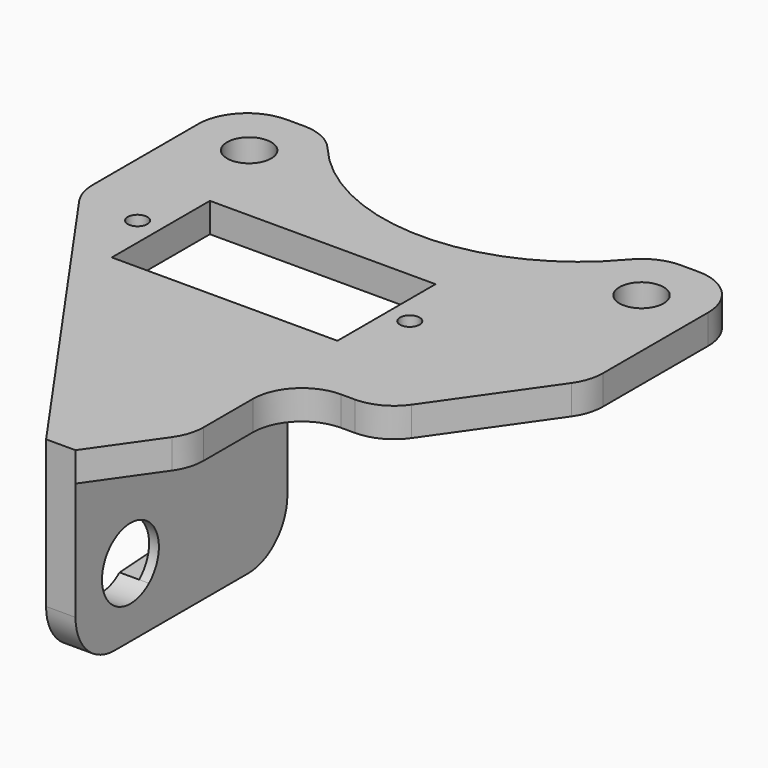
from build123d import *

# Parameters (mm, degrees)
F0_R       = 1
F0_W       = 23
F0_H       = 12.5
F0_R_2     = 2.25
F0_W_2     = 3
F0_H_2     = 27
F1_DEPTH   = 3
F2_DEPTH   = 20
F3_SIZE2   = 24.5
F3_SIZE    = 35
F3_2_SIZE2 = 24.5
F3_2_SIZE  = 35
F4_R       = 5
F6_DEPTH   = 25
F7_DEPTH   = 2
F8_R       = 5
F9_R       = 5
F10_R      = 5
F12_DEPTH  = 25
F13_R      = 5


with BuildPart() as f1:
    # F0 (on Top) → F1 (new body)
    with BuildSketch(Plane.XY):
        with BuildLine():
            Line((-16.7032930885, 35), (-26, 35))
            Line((-26, 35), (-26, -20))
            Line((-26, -20), (-1.5, -20))
            Line((-1.5, -20), (-1.5, 7))
            Line((-1.5, 7), (1.5, 7))
            Line((1.5, 7), (1.5, -20))
            Line((1.5, -20), (26, -20))
            Line((26, -20), (26, 35))
            Line((26, 35), (16.7032930885, 35))
            ThreePointArc((16.7032930885, 35), (0, 26), (-16.7032930885, 35))
        make_face()
        with Locations((-19.375, 14)):
            Circle(F0_R, mode=Mode.SUBTRACT)
        with Locations((-5.5, 14)):
            Rectangle(F0_W, F0_H, mode=Mode.SUBTRACT)
        with Locations((8.375, 14)):
            Circle(F0_R, mode=Mode.SUBTRACT)
        with Locations((-20, 29)):
            Circle(F0_R_2, mode=Mode.SUBTRACT)
        with Locations((20, 29)):
            Circle(F0_R_2, mode=Mode.SUBTRACT)
        with BuildLine():
            Line((-16.7032930885, 35), (-26, 35))
            Line((-26, 35), (-26, -20))
            Line((-26, -20), (-1.5, -20))
            Line((-1.5, -20), (-1.5, 7))
            Line((-1.5, 7), (1.5, 7))
            Line((1.5, 7), (1.5, -20))
            Line((1.5, -20), (26, -20))
            Line((26, -20), (26, 35))
            Line((26, 35), (16.7032930885, 35))
            ThreePointArc((16.7032930885, 35), (0, 26), (-16.7032930885, 35))
        make_face()
        with Locations((-19.375, 14)):
            Circle(F0_R, mode=Mode.SUBTRACT)
        with Locations((-5.5, 14)):
            Rectangle(F0_W, F0_H, mode=Mode.SUBTRACT)
        with Locations((8.375, 14)):
            Circle(F0_R, mode=Mode.SUBTRACT)
        with Locations((-20, 29)):
            Circle(F0_R_2, mode=Mode.SUBTRACT)
        with Locations((20, 29)):
            Circle(F0_R_2, mode=Mode.SUBTRACT)
        with Locations((0, -6.5)):
            Rectangle(F0_W_2, F0_H_2)
        with BuildLine():
            Line((-16.7032930885, 35), (-26, 35))
            Line((-26, 35), (-26, -20))
            Line((-26, -20), (-1.5, -20))
            Line((-1.5, -20), (-1.5, 7))
            Line((-1.5, 7), (1.5, 7))
            Line((1.5, 7), (1.5, -20))
            Line((1.5, -20), (26, -20))
            Line((26, -20), (26, 35))
            Line((26, 35), (16.7032930885, 35))
            ThreePointArc((16.7032930885, 35), (0, 26), (-16.7032930885, 35))
        make_face()
        with Locations((-19.375, 14)):
            Circle(F0_R, mode=Mode.SUBTRACT)
        with Locations((-5.5, 14)):
            Rectangle(F0_W, F0_H, mode=Mode.SUBTRACT)
        with Locations((8.375, 14)):
            Circle(F0_R, mode=Mode.SUBTRACT)
        with Locations((-20, 29)):
            Circle(F0_R_2, mode=Mode.SUBTRACT)
        with Locations((20, 29)):
            Circle(F0_R_2, mode=Mode.SUBTRACT)
    extrude(amount=-F1_DEPTH)

    # F0 (on Top) → F2 (join)
    with BuildSketch(Plane.XY):
        with Locations((0, -6.5)):
            Rectangle(F0_W_2, F0_H_2)
    extrude(amount=-F2_DEPTH)

    # F3
    f3_edges = [f1.edges().sort_by_distance(p)[0] for p in [
        (-26, -20, -1.5),
    ]]
    f3_side = f1.faces().sort_by_distance((-26, 7.5, -1.5))[0]
    chamfer(f3_edges, length=F3_SIZE, length2=F3_SIZE2, reference=f3_side)

    # F3#2
    f3_2_edges = [f1.edges().sort_by_distance(p)[0] for p in [
        (26, -20, -1.5),
    ]]
    f3_2_side = f1.faces().sort_by_distance((26, 7.5, -1.5))[0]
    chamfer(f3_2_edges, length=F3_2_SIZE, length2=F3_2_SIZE2, reference=f3_2_side)

    # F4
    f4_edges = [f1.edges().sort_by_distance(p)[0] for p in [
        (-26, 35, -1.5),
        (26, 35, -1.5),
    ]]
    fillet(f4_edges, radius=F4_R)

    # F5 (on face) → F6 (cut)
    with BuildSketch(Plane(origin=(-1.5, 0, 0), x_dir=(0, -1, 0), z_dir=(-1, 0, 0))):
        with BuildLine():
            ThreePointArc((10.6381945465, -15.75), (14.5131226373, -16.2940984934), (16.625, -13))
            ThreePointArc((16.625, -13), (14.5131226373, -9.7059015066), (10.6381945465, -10.25))
            ThreePointArc((10.6381945465, -10.25), (9.375, -13), (10.6381945465, -15.75))
        make_face()
    extrude(amount=-F6_DEPTH, mode=Mode.SUBTRACT)

    # F5 (on face) → F7 (cut)
    with BuildSketch(Plane(origin=(-1.5, 0, 0), x_dir=(0, -1, 0), z_dir=(-1, 0, 0))):
        with BuildLine():
            ThreePointArc((10.6381945465, -15.75), (9.375, -13), (10.6381945465, -10.25))
            Line((10.6381945465, -10.25), (-1.3752672326, -11.0039268249))
            ThreePointArc((-1.3752672326, -11.0039268249), (0.1192088107, -11.5421703691), (0.75, -13))
            ThreePointArc((0.75, -13), (0.1192088107, -14.4578296309), (-1.3752672326, -14.9960731751))
            Line((-1.3752672326, -14.9960731751), (10.6381945465, -15.75))
        make_face()
        with BuildLine():
            ThreePointArc((0.75, -13), (0.1192088107, -11.5421703691), (-1.3752672326, -11.0039268249))
            ThreePointArc((-1.3752672326, -11.0039268249), (-3.25, -13), (-1.3752672326, -14.9960731751))
            ThreePointArc((-1.3752672326, -14.9960731751), (0.1192088107, -14.4578296309), (0.75, -13))
        make_face()
    extrude(amount=-F7_DEPTH, mode=Mode.SUBTRACT)

    # F8
    f8_edges = [f1.edges().sort_by_distance(p)[0] for p in [
        (-26, 15, -1.5),
        (26, 15, -1.5),
    ]]
    fillet(f8_edges, radius=F8_R)

    # F9
    f9_edges = [f1.edges().sort_by_distance(p)[0] for p in [
        (-16.703293, 35, -1.5),
        (16.703293, 35, -1.5),
    ]]
    fillet(f9_edges, radius=F9_R)

    # F10
    f10_edges = [f1.edges().sort_by_distance(p)[0] for p in [
        (0, -20, -20),
        (0, 7, -20),
    ]]
    fillet(f10_edges, radius=F10_R)

    # F11 (on face) → F12 (cut)
    with BuildSketch(Plane.XY):
        Polygon((7, 0.7142857143), (7, -12.1428571429), (16, 0.7142857143), align=None)
    extrude(amount=-F12_DEPTH, mode=Mode.SUBTRACT)

    # F13
    f13_edges = [f1.edges().sort_by_distance(p)[0] for p in [
        (16, 0.714286, -1.5),
        (7, 0.714286, -1.5),
        (7, -12.142857, -1.5),
    ]]
    fillet(f13_edges, radius=F13_R)


solid = f1.part
